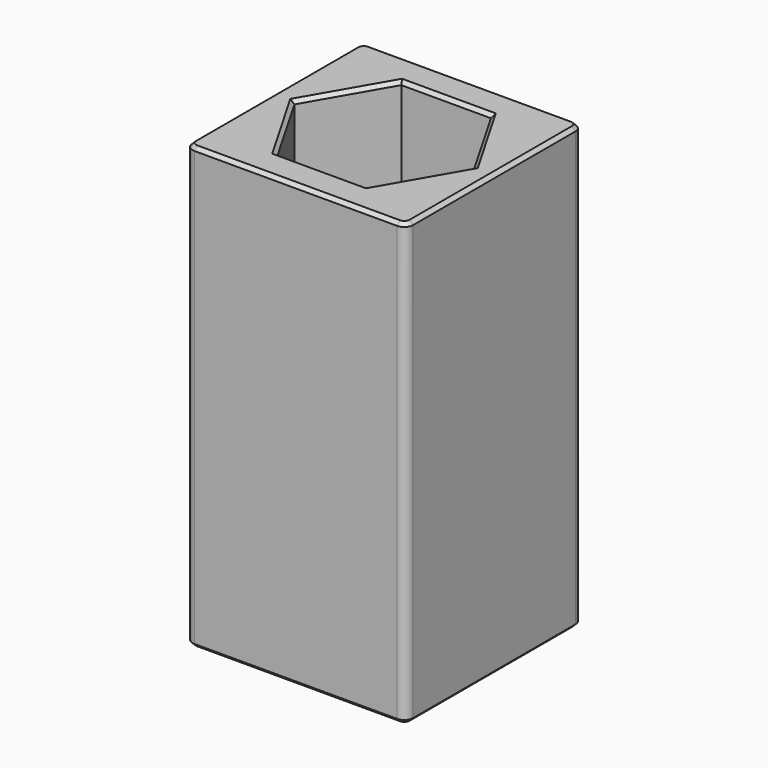
from build123d import *

# Parameters (mm, degrees)
F0_W     = 25
F0_H     = 25
F1_DEPTH = 50
F2_R     = 5.15
F3_DEPTH = 50.001
F5_START = -18
F4_R     = 5.15
F5_DEPTH = 32.001
F6_R     = 1
F7_SIZE  = 0.4
F8_ANGLE = 180


with BuildPart() as f1:
    # F0 (on Top) → F1 (new body)
    with BuildSketch(Plane.XY):
        Rectangle(F0_W, F0_H)
    extrude(amount=F1_DEPTH)

    # F2 (on face) → F3 (cut, through all)
    with BuildSketch(Plane.XY.offset(50)):
        Circle(F2_R)
    extrude(amount=-F3_DEPTH, mode=Mode.SUBTRACT)

    # F4 (on face) → F5 (cut)
    with BuildSketch(Plane.XY.offset(50).offset(F5_START)):
        Polygon((5.0806823689, 8.8), (-5.0806823689, 8.8), (-10.1613647377, 0), (-5.0806823689, -8.8), (5.0806823689, -8.8), (10.1613647377, 0), align=None)
        Circle(F4_R, mode=Mode.SUBTRACT)
    extrude(amount=-F5_DEPTH, mode=Mode.SUBTRACT)

    # F6
    f6_edges = [f1.edges().sort_by_distance(p)[0] for p in [
        (-12.5, 12.5, 25),
        (-12.5, -12.5, 25),
        (12.5, 12.5, 25),
        (12.5, -12.5, 25),
    ]]
    fillet(f6_edges, radius=F6_R)

    # F7
    f7_edges = [f1.edges().sort_by_distance(p)[0] for p in [
        (0, 12.5, 0),
        (12.207107, 12.207107, 0),
        (-12.207107, 12.207107, 0),
        (12.5, 0, 0),
        (-12.5, 0, 0),
        (12.207107, -12.207107, 0),
        (-12.207107, -12.207107, 0),
        (0, -12.5, 0),
        (7.621024, 4.4, 0),
        (0, 8.8, 0),
        (-7.621024, 4.4, 0),
        (-7.621024, -4.4, 0),
        (0, -8.8, 0),
        (7.621024, -4.4, 0),
        (0, 12.5, 50),
        (12.207107, 12.207107, 50),
        (-12.207107, 12.207107, 50),
        (12.5, 0, 50),
        (-12.5, 0, 50),
        (12.207107, -12.207107, 50),
        (-12.207107, -12.207107, 50),
        (0, -12.5, 50),
        (-5.15, 0, 50),
        (7.621024, 4.4, 32),
        (0, 8.8, 32),
        (-7.621024, 4.4, 32),
        (-7.621024, -4.4, 32),
        (0, -8.8, 32),
        (7.621024, -4.4, 32),
        (-5.15, 0, 32),
    ]]
    chamfer(f7_edges, length=F7_SIZE)


with BuildPart() as f1_1:
    # F8: moved
    add(f1.part.rotate(Axis((12.1, 0, 50), (0, -1, 0)), F8_ANGLE))


solid = f1_1.part
